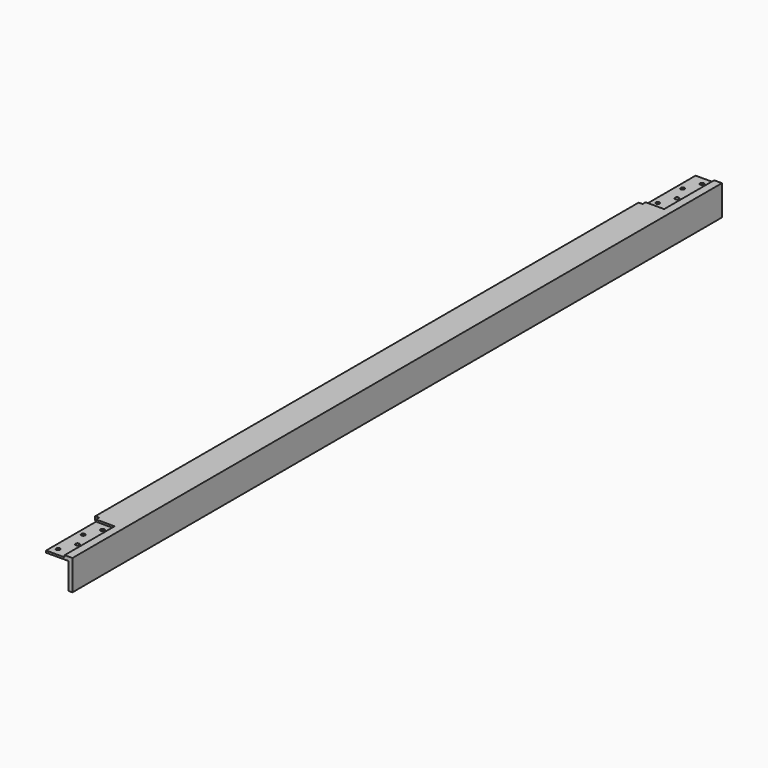
from build123d import *

# Parameters (mm, degrees)
F1_DEPTH = 660.4
F2_W     = 30.1752
F2_H     = 101.6
F2_R     = 3.175
F3_DEPTH = 3.175
F4_D     = 6.35
F5_DEPTH = 49.2135


with BuildPart() as f1:
    # F0 (on Front) → F1 (new body, symmetric)
    with BuildSketch(Plane.XZ):
        Polygon((17.4625, -23.812496), (23.8125, -23.812496), (23.8125, 25.400004), (-25.4, 25.400004), (-25.4, 19.050004), (17.4625, 19.050004), align=None)
    extrude(amount=F1_DEPTH, both=True)

    # F2 (on face) → F3 (cut)
    with BuildSketch(Plane.XY.offset(25.400004)):
        with Locations((-3.9624, -609.6)):
            Rectangle(F2_W, F2_H)
        with Locations((-9.525, -647.7)):
            Circle(F2_R, mode=Mode.SUBTRACT)
        with Locations((-9.525, -596.9)):
            Circle(F2_R, mode=Mode.SUBTRACT)
        with Locations((1.6002, -622.3)):
            Circle(F2_R, mode=Mode.SUBTRACT)
        with Locations((1.6002, -571.5)):
            Circle(F2_R, mode=Mode.SUBTRACT)
        with Locations((-3.9624, 609.6)):
            Rectangle(F2_W, F2_H)
        with Locations((-9.525, 571.5)):
            Circle(F2_R, mode=Mode.SUBTRACT)
        with Locations((-9.525, 622.3)):
            Circle(F2_R, mode=Mode.SUBTRACT)
        with Locations((1.6002, 596.9)):
            Circle(F2_R, mode=Mode.SUBTRACT)
        with Locations((1.6002, 647.7)):
            Circle(F2_R, mode=Mode.SUBTRACT)
    extrude(amount=-F3_DEPTH, mode=Mode.SUBTRACT)

    # F4 (through all)
    with Locations(Plane.XY.offset(25.400004)):
        with Locations((1.6002, -571.5), (-9.525, -596.9), (1.6002, -622.3), (-9.525, -647.7), (1.6002, 647.7), (-9.525, 622.3), (1.6002, 596.9), (-9.525, 571.5)):
            Hole(F4_D / 2)

    # F2 (on face) → F5 (cut, through all)
    with BuildSketch(Plane.XY.offset(25.400004)):
        Polygon((-25.4, 660.4), (-25.4, 552.5516), (-19.05, 552.5516), (-19.05, 558.8), (-19.05, 660.4), align=None)
        Polygon((-19.05, -552.5516), (-25.4, -552.5516), (-25.4, -660.4), (-19.05, -660.4), (-19.05, -558.8), align=None)
    extrude(amount=-F5_DEPTH, mode=Mode.SUBTRACT)


solid = f1.part
